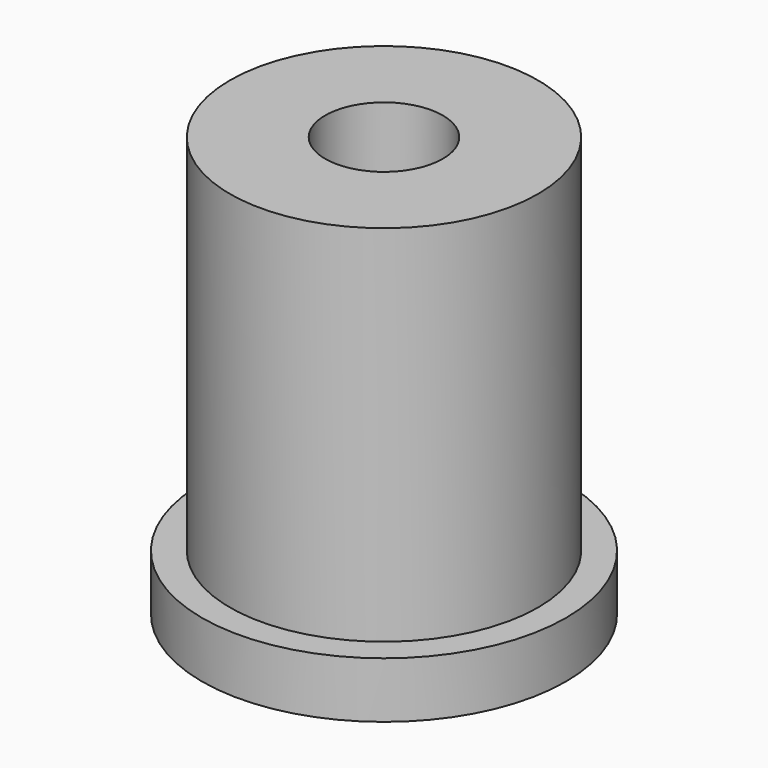
from build123d import *

# Parameters (mm, degrees)
CYLINDER_R        = 2.1
CYLINDER_DEPTH    = 100
CYLINDER006_R     = 5.5
CYLINDER006_DEPTH = 15
CYLINDER007_R     = 6.5
CYLINDER007_DEPTH = 2


with BuildPart() as centeraxis:
    # Cylinder → Cylinder (new body)
    with BuildSketch(Plane.XY.offset(-10)):
        Circle(CYLINDER_R)
    extrude(amount=CYLINDER_DEPTH)


with BuildPart() as bearing003:
    # Cylinder006 → Cylinder006 (new body)
    with BuildSketch(Plane.XY.offset(21)):
        Circle(CYLINDER006_R)
    extrude(amount=CYLINDER006_DEPTH)


with BuildPart() as centerbearing001:
    # Cylinder007 → Cylinder007 (new body)
    with BuildSketch(Plane.XY.offset(21)):
        Circle(CYLINDER007_R)
    extrude(amount=CYLINDER007_DEPTH)

    # Fusion001: union Bearing003
    add(bearing003.part)

    # Cut012: cut CenterAxis
    add(centeraxis.part, mode=Mode.SUBTRACT)


with BuildPart() as centerbearing001_1:
    # Cut012 placement: moved
    add(centerbearing001.part.moved(Location((-60, 0, 0))))


solid = centerbearing001_1.part
